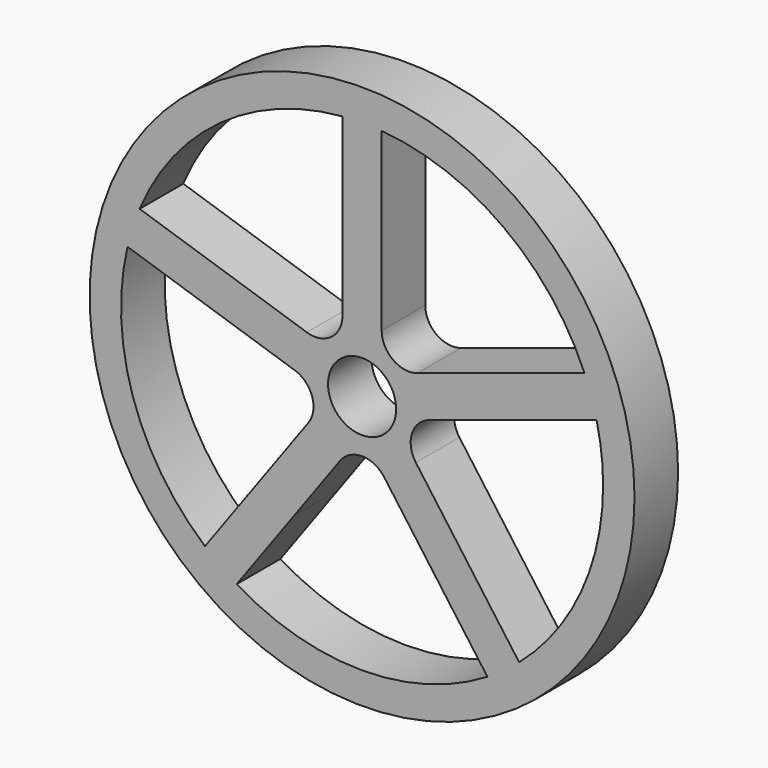
from build123d import *

# Parameters (mm, degrees)
F0_R     = 63.5
F0_R_2   = 7.9375
F1_DEPTH = 12.7


with BuildPart() as f1:
    # F0 (on Front) → F1 (new body)
    with BuildSketch(Plane.XZ):
        Circle(F0_R)
        with BuildLine():
            ThreePointArc((54.6665564179, 12.9575831816), (55.8012817771, 6.5229061418), (56.1812366587, 0))
            ThreePointArc((56.1812366587, 0), (51.0550069931, -23.4460575244), (36.6117986709, -42.613466775))
            ThreePointArc((36.6117986709, -42.613466775), (33.0225023635, -45.4515752219), (29.2141472743, -47.988175122))
            ThreePointArc((29.2141472743, -47.988175122), (0, -56.1812366587), (-29.2141472743, -47.988175122))
            ThreePointArc((-29.2141472743, -47.988175122), (-33.0225023635, -45.4515752219), (-36.6117986709, -42.613466775))
            ThreePointArc((-36.6117986709, -42.613466775), (-53.4315312178, -17.3609568925), (-54.6671346388, 12.9551434915))
            ThreePointArc((-54.6671346388, 12.9551434915), (-53.4315312178, 17.3609568925), (-51.8414832422, 21.6516042765))
            ThreePointArc((-51.8414832422, 21.6516042765), (-33.0225023635, 45.4515752219), (-4.572, 55.9948941289))
            ThreePointArc((-4.572, 55.9948941289), (0, 56.1812366587), (4.572, 55.9948941289))
            ThreePointArc((4.572, 55.9948941289), (33.0214881574, 45.4523120685), (51.8405169309, 21.6539178173))
            ThreePointArc((51.8405169309, 21.6539178173), (53.4307563802, 17.3633414164), (54.6665564179, 12.9575831816))
        make_face(mode=Mode.SUBTRACT)
        with BuildLine():
            Line((15.7095408853, 0.2970539508), (54.6665564179, 12.9575831816))
            ThreePointArc((54.6665564179, 12.9575831816), (53.4307563802, 17.3633414164), (51.8405169309, 21.6539178173))
            Line((51.8405169309, 21.6539178173), (12.8846263398, 8.993754178))
            ThreePointArc((12.8846263398, 8.993754178), (7.189720352, 9.8954715726), (4.572, 15.0328433354))
            Line((4.572, 15.0328433354), (4.572, 55.9948941289))
            ThreePointArc((4.572, 55.9948941289), (0, 56.1812366587), (-4.572, 55.9948941289))
            Line((-4.572, 55.9948941289), (-4.572, 15.0328433354))
            ThreePointArc((-4.572, 15.0328433354), (-7.1895636479, 9.8955854211), (-12.8842579143, 8.9936344569))
            Line((-12.8842579143, 8.9936344569), (-51.8414832422, 21.6516042765))
            ThreePointArc((-51.8414832422, 21.6516042765), (-53.4315312178, 17.3609568925), (-54.6671346388, 12.9551434915))
            Line((-54.6671346388, 12.9551434915), (-15.7099093108, 0.2971736719))
            ThreePointArc((-15.7099093108, 0.2971736719), (-11.6329583467, -3.7797772923), (-12.5349093108, -9.4744715586))
            Line((-12.5349093108, -9.4744715586), (-36.6117986709, -42.613466775))
            ThreePointArc((-36.6117986709, -42.613466775), (-33.0225023635, -45.4515752219), (-29.2141472743, -47.988175122))
            Line((-29.2141472743, -47.988175122), (-15.8198157406, -29.5524593622))
            Line((-15.8198157406, -29.5524593622), (-5.1372579143, -14.8491799056))
            ThreePointArc((-5.1372579143, -14.8491799056), (0, -12.2316162576), (5.1372579143, -14.8491799056))
            Line((5.1372579143, -14.8491799056), (29.2141472743, -47.988175122))
            ThreePointArc((29.2141472743, -47.988175122), (33.0225023635, -45.4515752219), (36.6117986709, -42.613466775))
            Line((36.6117986709, -42.613466775), (12.5349093108, -9.4744715586))
            ThreePointArc((12.5349093108, -9.4744715586), (11.6328984945, -3.7799615078), (15.7095408853, 0.2970539508))
        make_face()
        Circle(F0_R_2, mode=Mode.SUBTRACT)
    extrude(amount=F1_DEPTH)


solid = f1.part
